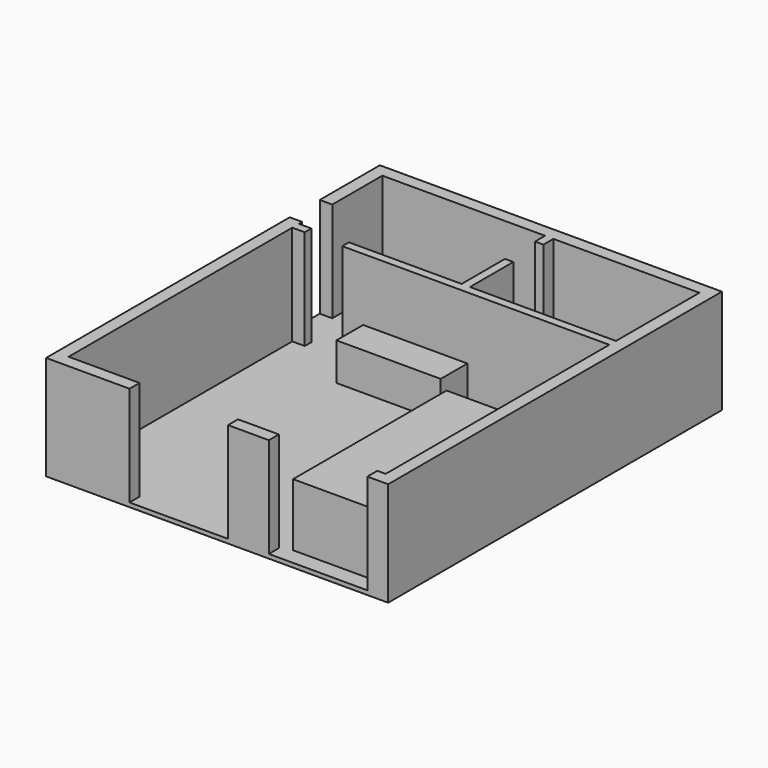
from build123d import *

# Parameters (mm, degrees)
F0_W      = 8200
F0_H      = 10000
F3_DEPTH  = 2500
F1_W      = 7600
F1_H      = 9400
F4_DEPTH  = 2400
F2_W      = 2360
F2_H      = 300
F5_DEPTH  = 2400
F6_W      = 7600
F6_H      = 200
F7_DEPTH  = 2400
F8_W      = 200
F8_H      = 2500
F9_DEPTH  = 2400
F10_W     = 900
F10_H     = 200
F10_W_2   = 200
F10_H_2   = 900
F10_W_3   = 300
F11_DEPTH = 2400
F12_W     = 2000
F12_H     = 800
F13_DEPTH = 900
F14_W     = 1800
F14_H     = 4600
F15_DEPTH = 1500
F16_W     = 2500
F16_H     = 800
F17_DEPTH = 900


with BuildPart() as f3:
    # F0 (on Top) → F3 (new body)
    with BuildSketch(Plane.XY):
        with Locations((4100, 5000)):
            Rectangle(F0_W, F0_H)
    extrude(amount=-F3_DEPTH)

    # F1 (on face) → F4 (cut)
    with BuildSketch(Plane.XY):
        with Locations((4100, 5000)):
            Rectangle(F1_W, F1_H)
    extrude(amount=-F4_DEPTH, mode=Mode.SUBTRACT)

    # F2 (on face) → F5 (cut)
    with BuildSketch(Plane.XY):
        with Locations((3180, 150)):
            Rectangle(F2_W, F2_H)
        with Locations((6520, 150)):
            Rectangle(F2_W, F2_H)
    extrude(amount=-F5_DEPTH, mode=Mode.SUBTRACT)

    # F6 (on face) → F7 (join)
    with BuildSketch(Plane.XY.offset(-2400)):
        with Locations((4100, 7100)):
            Rectangle(F6_W, F6_H)
    extrude(amount=F7_DEPTH)

    # F8 (on face) → F9 (join)
    with BuildSketch(Plane.XY.offset(-2400)):
        with Locations((4300, 8450)):
            Rectangle(F8_W, F8_H)
    extrude(amount=F9_DEPTH)

    # F10 (on face) → F11 (cut)
    with BuildSketch(Plane.XY):
        with Locations((1050, 7100)):
            Rectangle(F10_W, F10_H)
        with Locations((4300, 8950)):
            Rectangle(F10_W_2, F10_H_2)
        with Locations((150, 7750)):
            Rectangle(F10_W_3, F10_H_2)
    extrude(amount=-F11_DEPTH, mode=Mode.SUBTRACT)


with BuildPart() as f13:
    # F12 (on face) → F13 (new body)
    with BuildSketch(Plane.XY.offset(-2400)):
        with Locations((3200, 7600)):
            Rectangle(F12_W, F12_H)
    extrude(amount=F13_DEPTH)


with BuildPart() as f15:
    # F14 (on face) → F15 (new body)
    with BuildSketch(Plane.XY.offset(-2400)):
        with Locations((6500, 2700)):
            Rectangle(F14_W, F14_H)
    extrude(amount=F15_DEPTH)


with BuildPart() as f17:
    # F16 (on face) → F17 (new body)
    with BuildSketch(Plane.XY.offset(-2400)):
        with Locations((3250, 6600)):
            Rectangle(F16_W, F16_H)
    extrude(amount=F17_DEPTH)


solid = Compound([f3.part, f13.part, f15.part, f17.part])
